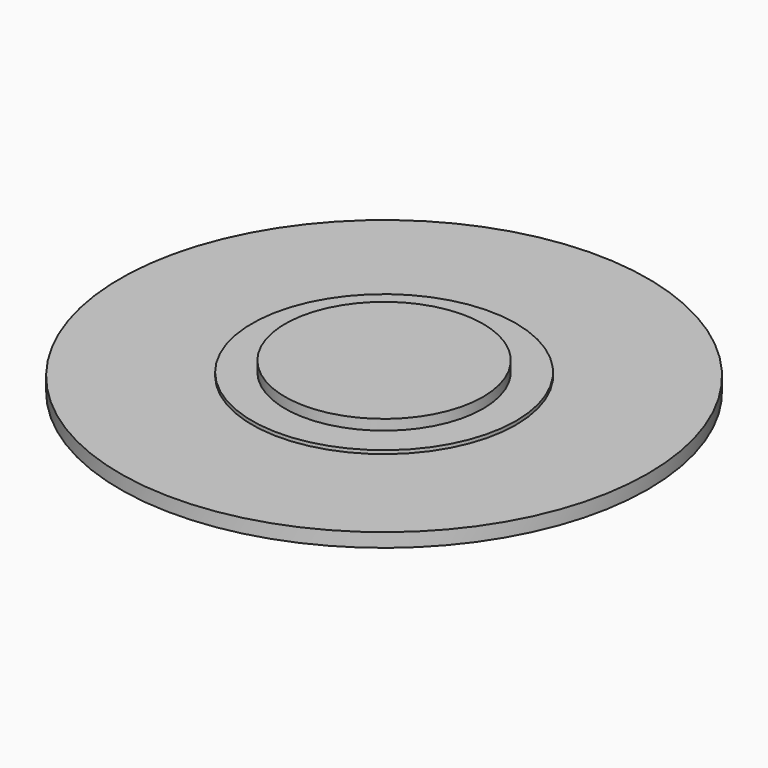
from build123d import *

# Parameters (mm, degrees)
F0_R     = 19.05
F0_R_2   = 9.525
F1_DEPTH = 1
F0_R_3   = 7.14375
F2_DEPTH = 0.25
F3_DEPTH = 1
F4_DEPTH = 0.75


with BuildPart() as f1:
    # F0 (on Top) → F1 (new body)
    with BuildSketch(Plane.XY):
        Circle(F0_R)
        Circle(F0_R_2, mode=Mode.SUBTRACT)
    extrude(amount=-F1_DEPTH)



with BuildPart() as f2:
    # F0 (on Top) → F2 (new body)
    with BuildSketch(Plane.XY):
        Circle(F0_R_2)
        Circle(F0_R_3, mode=Mode.SUBTRACT)
    extrude(amount=F2_DEPTH)

    # F0 (on Top) → F3 (join)
    with BuildSketch(Plane.XY):
        Circle(F0_R_3)
    extrude(amount=F3_DEPTH)


with BuildPart() as f1_1:
    add(f1.part)

    add(f2.part)  # F4 merges F2
    # F0 (on Top) → F4 (join)
    with BuildSketch(Plane.XY):
        Circle(F0_R_2)
        Circle(F0_R_3, mode=Mode.SUBTRACT)
    extrude(amount=-F4_DEPTH)


with BuildPart() as f5_1:
    # F5: copy of F1
    add(f1_1.part.moved(Location((0, 0, -6.35))))


solid = f1_1.part
